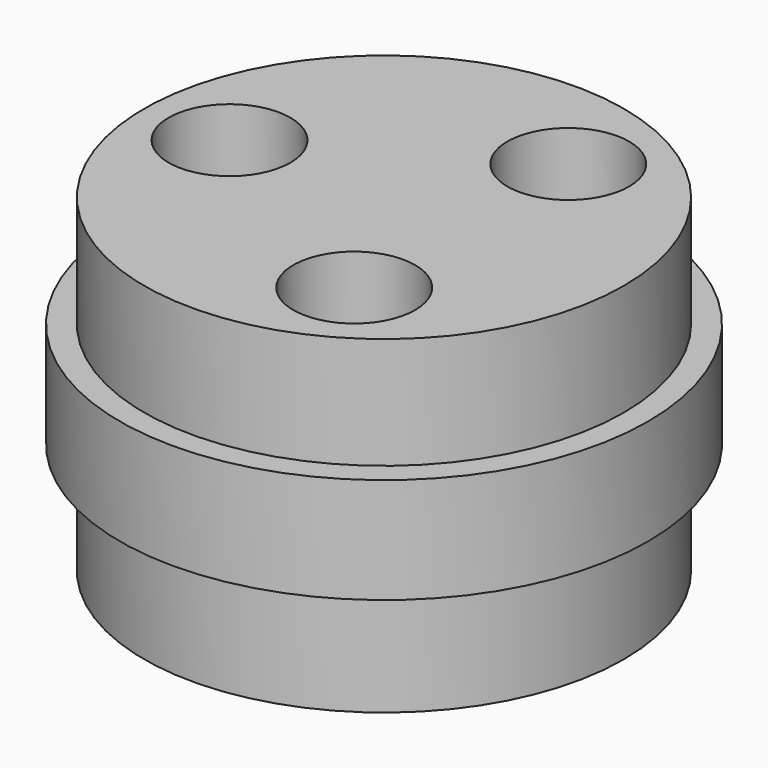
from build123d import *

# Parameters (mm, degrees)
F0_R     = 7.95
F1_DEPTH = 3.7
F2_R     = 8.75
F3_DEPTH = 3.5
F4_R     = 7.95
F5_DEPTH = 3.7
F6_R     = 2.0190036786
F7_DEPTH = 10.901


with BuildPart() as f1:
    # F0 (on Top) → F1 (new body)
    with BuildSketch(Plane.XY):
        Circle(F0_R)
    extrude(amount=F1_DEPTH)

    # F2 (on face) → F3 (join)
    with BuildSketch(Plane.XY.offset(3.7)):
        Circle(F2_R)
    extrude(amount=F3_DEPTH)

    # F4 (on face) → F5 (join)
    with BuildSketch(Plane.XY.offset(7.2)):
        Circle(F4_R)
    extrude(amount=F5_DEPTH)

    # F6 (on face) → F7 (cut, through all)
    with BuildSketch(Plane.XY.offset(10.9)):
        with Locations((-5.1206611768, 0)):
            Circle(F6_R)
        with Locations((2.5603305884, -4.4346226633)):
            Circle(F6_R)
        with Locations((2.5603305884, 4.4346226633)):
            Circle(F6_R)
    extrude(amount=-F7_DEPTH, mode=Mode.SUBTRACT)


solid = f1.part
